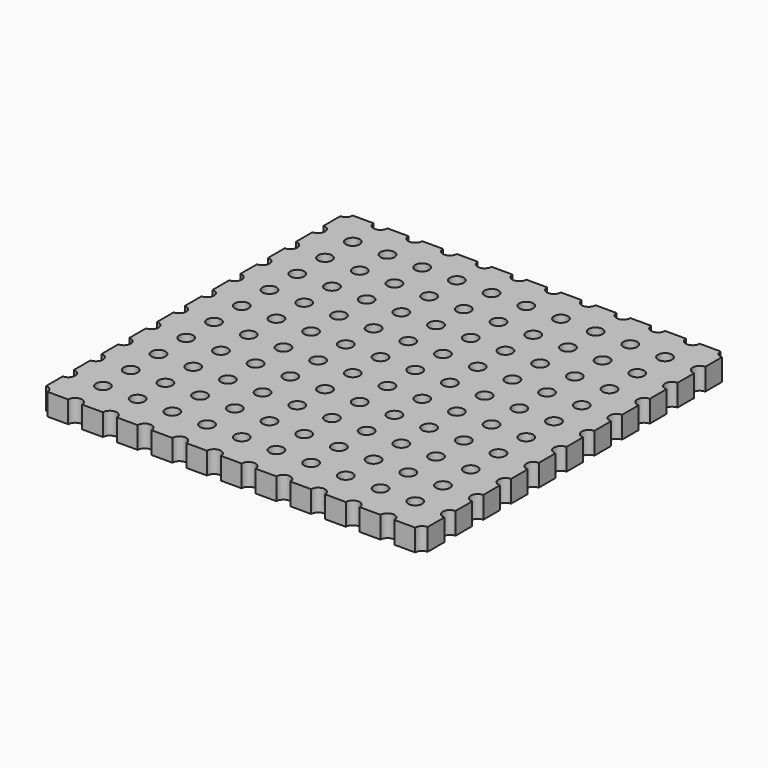
from build123d import *

# Parameters (mm, degrees)
SKETCH_W                      = 27.94
SKETCH_H                      = 27.94
PAD_DEPTH                     = 1.6
SKETCH001_R                   = 0.51
POCKET_DEPTH                  = 80.692016
SKETCH001_LINEARPATTERN_2_R   = 0.51
POCKET_LINEARPATTERN_2_DEPTH  = 80.692016
SKETCH001_LINEARPATTERN_3_R   = 0.51
POCKET_LINEARPATTERN_3_DEPTH  = 80.692016
SKETCH001_LINEARPATTERN_4_R   = 0.51
POCKET_LINEARPATTERN_4_DEPTH  = 80.692016
SKETCH001_LINEARPATTERN_5_R   = 0.51
POCKET_LINEARPATTERN_5_DEPTH  = 80.692016
SKETCH001_LINEARPATTERN_6_R   = 0.51
POCKET_LINEARPATTERN_6_DEPTH  = 80.692016
SKETCH001_LINEARPATTERN_7_R   = 0.51
POCKET_LINEARPATTERN_7_DEPTH  = 80.692016
SKETCH001_LINEARPATTERN_8_R   = 0.51
POCKET_LINEARPATTERN_8_DEPTH  = 80.692016
SKETCH001_LINEARPATTERN_9_R   = 0.51
POCKET_LINEARPATTERN_9_DEPTH  = 80.692016
SKETCH001_LINEARPATTERN_10_R  = 0.51
POCKET_LINEARPATTERN_10_DEPTH = 80.692016
SKETCH001_LINEARPATTERN_11_R  = 0.51
POCKET_LINEARPATTERN_11_DEPTH = 80.692016
SKETCH001_LINEARPATTERN_12_R  = 0.51
POCKET_LINEARPATTERN_12_DEPTH = 80.692016
LINEARPATTERN003_COUNT        = 12
LINEARPATTERN003_PITCH        = 2.54


with BuildPart() as part:
    # Sketch → Pad (new body)
    with BuildSketch(Plane.XY):
        Rectangle(SKETCH_W, SKETCH_H)
    extrude(amount=PAD_DEPTH)

    # Sketch001 → Pocket (cut, through all)
    with BuildSketch(Plane.XY.offset(1.6)):
        with Locations((-13.97, 13.97)):
            Circle(SKETCH001_R)
    pocket = extrude(amount=-POCKET_DEPTH, mode=Mode.SUBTRACT)

    # Sketch001 LinearPattern 2 → Pocket LinearPattern 2 (cut, through all)
    with BuildSketch(Plane(origin=(2.54, 0, 1.6), x_dir=(1, 0, 0), z_dir=(0, 0, 1))):
        with Locations((-13.97, 13.97)):
            Circle(SKETCH001_LINEARPATTERN_2_R)
    pocket_linearpattern_2 = extrude(amount=-POCKET_LINEARPATTERN_2_DEPTH, mode=Mode.SUBTRACT)

    # Sketch001 LinearPattern 3 → Pocket LinearPattern 3 (cut, through all)
    with BuildSketch(Plane(origin=(5.08, 0, 1.6), x_dir=(1, 0, 0), z_dir=(0, 0, 1))):
        with Locations((-13.97, 13.97)):
            Circle(SKETCH001_LINEARPATTERN_3_R)
    pocket_linearpattern_3 = extrude(amount=-POCKET_LINEARPATTERN_3_DEPTH, mode=Mode.SUBTRACT)

    # Sketch001 LinearPattern 4 → Pocket LinearPattern 4 (cut, through all)
    with BuildSketch(Plane(origin=(7.62, 0, 1.6), x_dir=(1, 0, 0), z_dir=(0, 0, 1))):
        with Locations((-13.97, 13.97)):
            Circle(SKETCH001_LINEARPATTERN_4_R)
    pocket_linearpattern_4 = extrude(amount=-POCKET_LINEARPATTERN_4_DEPTH, mode=Mode.SUBTRACT)

    # Sketch001 LinearPattern 5 → Pocket LinearPattern 5 (cut, through all)
    with BuildSketch(Plane(origin=(10.16, 0, 1.6), x_dir=(1, 0, 0), z_dir=(0, 0, 1))):
        with Locations((-13.97, 13.97)):
            Circle(SKETCH001_LINEARPATTERN_5_R)
    pocket_linearpattern_5 = extrude(amount=-POCKET_LINEARPATTERN_5_DEPTH, mode=Mode.SUBTRACT)

    # Sketch001 LinearPattern 6 → Pocket LinearPattern 6 (cut, through all)
    with BuildSketch(Plane(origin=(12.7, 0, 1.6), x_dir=(1, 0, 0), z_dir=(0, 0, 1))):
        with Locations((-13.97, 13.97)):
            Circle(SKETCH001_LINEARPATTERN_6_R)
    pocket_linearpattern_6 = extrude(amount=-POCKET_LINEARPATTERN_6_DEPTH, mode=Mode.SUBTRACT)

    # Sketch001 LinearPattern 7 → Pocket LinearPattern 7 (cut, through all)
    with BuildSketch(Plane(origin=(15.24, 0, 1.6), x_dir=(1, 0, 0), z_dir=(0, 0, 1))):
        with Locations((-13.97, 13.97)):
            Circle(SKETCH001_LINEARPATTERN_7_R)
    pocket_linearpattern_7 = extrude(amount=-POCKET_LINEARPATTERN_7_DEPTH, mode=Mode.SUBTRACT)

    # Sketch001 LinearPattern 8 → Pocket LinearPattern 8 (cut, through all)
    with BuildSketch(Plane(origin=(17.78, 0, 1.6), x_dir=(1, 0, 0), z_dir=(0, 0, 1))):
        with Locations((-13.97, 13.97)):
            Circle(SKETCH001_LINEARPATTERN_8_R)
    pocket_linearpattern_8 = extrude(amount=-POCKET_LINEARPATTERN_8_DEPTH, mode=Mode.SUBTRACT)

    # Sketch001 LinearPattern 9 → Pocket LinearPattern 9 (cut, through all)
    with BuildSketch(Plane(origin=(20.32, 0, 1.6), x_dir=(1, 0, 0), z_dir=(0, 0, 1))):
        with Locations((-13.97, 13.97)):
            Circle(SKETCH001_LINEARPATTERN_9_R)
    pocket_linearpattern_9 = extrude(amount=-POCKET_LINEARPATTERN_9_DEPTH, mode=Mode.SUBTRACT)

    # Sketch001 LinearPattern 10 → Pocket LinearPattern 10 (cut, through all)
    with BuildSketch(Plane(origin=(22.86, 0, 1.6), x_dir=(1, 0, 0), z_dir=(0, 0, 1))):
        with Locations((-13.97, 13.97)):
            Circle(SKETCH001_LINEARPATTERN_10_R)
    pocket_linearpattern_10 = extrude(amount=-POCKET_LINEARPATTERN_10_DEPTH, mode=Mode.SUBTRACT)

    # Sketch001 LinearPattern 11 → Pocket LinearPattern 11 (cut, through all)
    with BuildSketch(Plane(origin=(25.4, 0, 1.6), x_dir=(1, 0, 0), z_dir=(0, 0, 1))):
        with Locations((-13.97, 13.97)):
            Circle(SKETCH001_LINEARPATTERN_11_R)
    pocket_linearpattern_11 = extrude(amount=-POCKET_LINEARPATTERN_11_DEPTH, mode=Mode.SUBTRACT)

    # Sketch001 LinearPattern 12 → Pocket LinearPattern 12 (cut, through all)
    with BuildSketch(Plane(origin=(27.94, 0, 1.6), x_dir=(1, 0, 0), z_dir=(0, 0, 1))):
        with Locations((-13.97, 13.97)):
            Circle(SKETCH001_LINEARPATTERN_12_R)
    pocket_linearpattern_12 = extrude(amount=-POCKET_LINEARPATTERN_12_DEPTH, mode=Mode.SUBTRACT)

    # LinearPattern003: Pocket, Pocket LinearPattern 2, Pocket LinearPattern 3, Pocket LinearPattern 4, Pocket LinearPattern 5, Pocket LinearPattern 6, Pocket LinearPattern 7, Pocket LinearPattern 8, Pocket LinearPattern 9, Pocket LinearPattern 10, Pocket LinearPattern 11, Pocket LinearPattern 12 ×12
    with Locations(*[(0, -i * LINEARPATTERN003_PITCH, 0) for i in range(1, LINEARPATTERN003_COUNT)]):
        add(pocket, mode=Mode.SUBTRACT)
        add(pocket_linearpattern_2, mode=Mode.SUBTRACT)
        add(pocket_linearpattern_3, mode=Mode.SUBTRACT)
        add(pocket_linearpattern_4, mode=Mode.SUBTRACT)
        add(pocket_linearpattern_5, mode=Mode.SUBTRACT)
        add(pocket_linearpattern_6, mode=Mode.SUBTRACT)
        add(pocket_linearpattern_7, mode=Mode.SUBTRACT)
        add(pocket_linearpattern_8, mode=Mode.SUBTRACT)
        add(pocket_linearpattern_9, mode=Mode.SUBTRACT)
        add(pocket_linearpattern_10, mode=Mode.SUBTRACT)
        add(pocket_linearpattern_11, mode=Mode.SUBTRACT)
        add(pocket_linearpattern_12, mode=Mode.SUBTRACT)


solid = part.part
